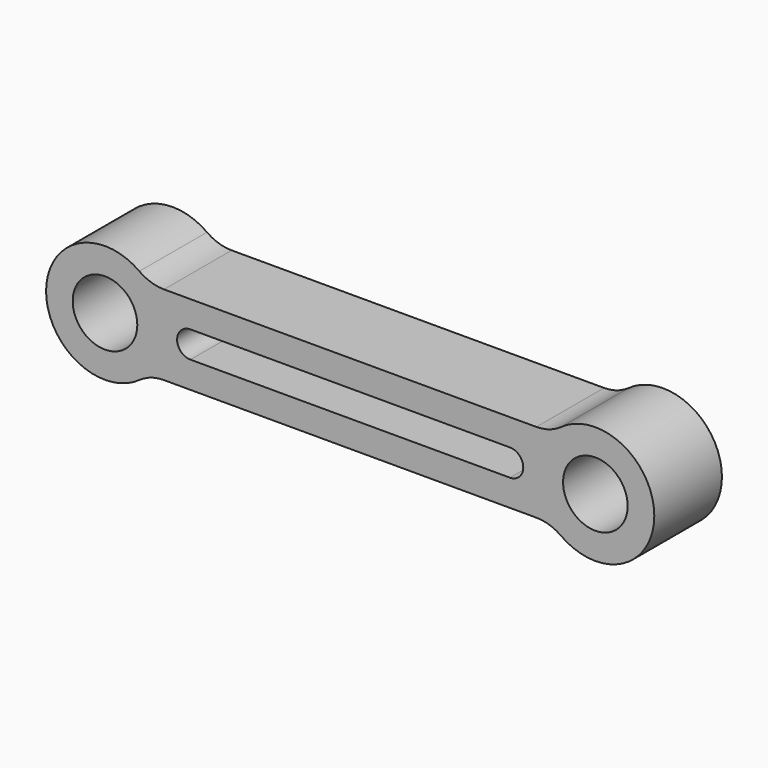
from build123d import *

# Parameters (mm, degrees)
F1_R     = 4.8514
F2_DEPTH = 12.7
F4_DEPTH = 12.701


with BuildPart() as f2:
    # F1 (on Front) → F2 (new body)
    with BuildSketch(Plane.XZ):
        with BuildLine():
            ThreePointArc((-27.966589, 6), (-29.911259, 6.305105), (-31.669054, 7.1911))
            ThreePointArc((-31.669054, 7.1911), (-45.6814, 0), (-31.669054, -7.1911))
            ThreePointArc((-31.669054, -7.1911), (-29.911259, -6.305105), (-27.966589, -6))
            Line((-27.966589, -6), (27.966589, -6))
            ThreePointArc((27.966589, -6), (29.911259, -6.305105), (31.669054, -7.1911))
            ThreePointArc((31.669054, -7.1911), (45.6814, 0), (31.669054, 7.1911))
            ThreePointArc((31.669054, 7.1911), (29.911259, 6.305105), (27.966589, 6))
            Line((27.966589, 6), (-27.966589, 6))
        make_face()
        with Locations((-36.83, 0)):
            Circle(F1_R, mode=Mode.SUBTRACT)
        with Locations((36.83, 0)):
            Circle(F1_R, mode=Mode.SUBTRACT)
    extrude(amount=F2_DEPTH)

    # F3 (on Front) → F4 (cut, through all)
    with BuildSketch(Plane.XZ):
        with BuildLine():
            ThreePointArc((-24, 2), (-26, 0), (-24, -2))
            Line((-24, -2), (24, -2))
            ThreePointArc((24, -2), (26, 0), (24, 2))
            Line((24, 2), (-24, 2))
        make_face()
    extrude(amount=F4_DEPTH, mode=Mode.SUBTRACT)


solid = f2.part
